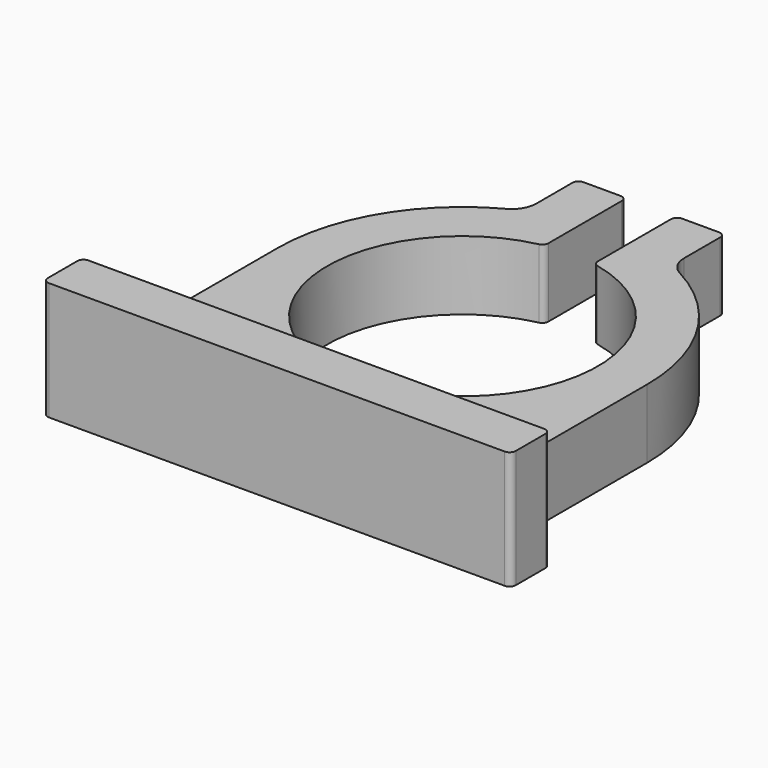
from build123d import *

# Parameters (mm, degrees)
F1_DEPTH = 30.48
F3_DEPTH = 12.7


with BuildPart() as f1:
    # F0 (on Top) → F1 (new body)
    with BuildSketch(Plane.XY):
        with BuildLine():
            ThreePointArc((0, 1.5875), (0.464968, 0.464968), (1.5875, 0))
            Line((1.5875, 0), (119.0625, 0))
            ThreePointArc((119.0625, 0), (120.185032, 0.464968), (120.65, 1.5875))
            Line((120.65, 1.5875), (120.65, 11.1125))
            ThreePointArc((120.65, 11.1125), (120.185032, 12.235032), (119.0625, 12.7))
            Line((119.0625, 12.7), (111.125, 12.7))
            ThreePointArc((111.125, 12.7), (108.879936, 13.629936), (107.95, 15.875))
            Line((107.95, 15.875), (107.95, 59.817))
            ThreePointArc((107.95, 59.817), (101.163101, 84.31986), (82.736765, 101.839059))
            ThreePointArc((82.736765, 101.839059), (80.27992, 104.174952), (79.375, 107.442))
            Line((79.375, 107.442), (79.375, 119.0625))
            ThreePointArc((79.375, 119.0625), (78.910032, 120.185032), (77.7875, 120.65))
            Line((77.7875, 120.65), (68.2625, 120.65))
            ThreePointArc((68.2625, 120.65), (67.139968, 120.185032), (66.675, 119.0625))
            Line((66.675, 119.0625), (66.675, 95.456287))
            ThreePointArc((66.675, 95.456287), (67.023949, 94.463237), (67.917391, 93.906752))
            ThreePointArc((67.917391, 93.906752), (60.325, 24.892), (52.732609, 93.906752))
            ThreePointArc((52.732609, 93.906752), (53.626051, 94.463237), (53.975, 95.456287))
            Line((53.975, 95.456287), (53.975, 119.0625))
            ThreePointArc((53.975, 119.0625), (53.510032, 120.185032), (52.3875, 120.65))
            Line((52.3875, 120.65), (42.8625, 120.65))
            ThreePointArc((42.8625, 120.65), (41.739968, 120.185032), (41.275, 119.0625))
            Line((41.275, 119.0625), (41.275, 107.442))
            ThreePointArc((41.275, 107.442), (40.37008, 104.174952), (37.913235, 101.839059))
            ThreePointArc((37.913235, 101.839059), (19.486899, 84.31986), (12.7, 59.817))
            Line((12.7, 59.817), (12.7, 15.875))
            ThreePointArc((12.7, 15.875), (11.770064, 13.629936), (9.525, 12.7))
            Line((9.525, 12.7), (1.5875, 12.7))
            ThreePointArc((1.5875, 12.7), (0.464968, 12.235032), (0, 11.1125))
            Line((0, 11.1125), (0, 1.5875))
        make_face()
    extrude(amount=F1_DEPTH)

    # F2 (on face) → F3 (cut)
    with BuildSketch(Plane.XY.offset(30.48)):
        with BuildLine():
            Line((119.0625, 12.7), (119.0625, 32.229791))
            ThreePointArc((119.0625, 32.229791), (60.325, 156.972), (1.5875, 32.229791))
            Line((1.5875, 32.229791), (1.5875, 12.7))
            Line((1.5875, 12.7), (119.0625, 12.7))
        make_face()
    extrude(amount=-F3_DEPTH, mode=Mode.SUBTRACT)


solid = f1.part
